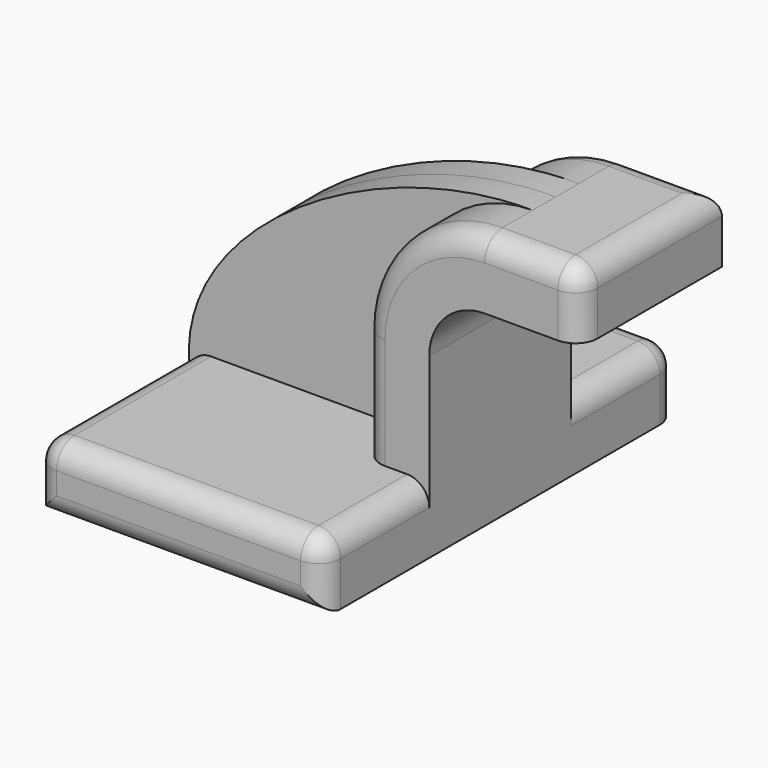
from build123d import *

# Parameters (mm, degrees)
F1_DEPTH = 63.5
F0_W     = 25.4
F0_H     = 9.398
F2_DEPTH = 25.4
F3_DEPTH = 8.255
F4_R     = 6.35
F5_R     = 6.35


with BuildPart() as f1:
    # F0 (on Front) → F1 (new body, symmetric)
    with BuildSketch(Plane.XZ):
        Polygon((22.225, 9.525), (-41.275, 9.525), (-41.275, -9.525), (41.275, -9.525), (41.275, 9.525), align=None)
    extrude(amount=F1_DEPTH, both=True)

    # F0 (on Front) → F2 (join, symmetric)
    with BuildSketch(Plane.XZ):
        with BuildLine():
            Line((22.225, 41.402), (22.225, 9.525))
            Line((22.225, 9.525), (41.275, 9.525))
            Line((41.275, 9.525), (41.275, 41.402))
            ThreePointArc((41.275, 41.402), (45.9246798487, 52.6273201513), (57.15, 57.277))
            Line((57.15, 57.277), (59.0423882883, 57.277))
            Line((59.0423882883, 57.277), (59.0423882883, 66.675))
            Line((59.0423882883, 66.675), (84.4423882883, 66.675))
            Line((84.4423882883, 66.675), (84.4423882883, 76.327))
            Line((84.4423882883, 76.327), (57.15, 76.327))
            ThreePointArc((57.15, 76.327), (32.4542956671, 66.0977043329), (22.225, 41.402))
        make_face()
        with Locations((71.7423882883, 61.976)):
            Rectangle(F0_W, F0_H)
    extrude(amount=F2_DEPTH, both=True)

    # F0 (on Front) → F3 (join, symmetric)
    with BuildSketch(Plane.XZ):
        with BuildLine():
            add(Edge.make_bspline(
                [(-41.275, 9.525), (-40.4969751835, 44.2796610296), (12.460607104, 76.7662450671), (57.15, 76.327)],
                knots=[0, 0, 0, 0, 118.9537213752, 118.9537213752, 118.9537213752, 118.9537213752], degree=3))
            Line((-41.275, 9.525), (22.225, 9.525))
            Line((22.225, 9.525), (22.225, 41.402))
            ThreePointArc((22.225, 41.402), (32.4542956671, 66.0977043329), (57.15, 76.327))
        make_face()
    extrude(amount=F3_DEPTH, both=True)

    # F4
    f4_edges = [f1.edges().sort_by_distance(p)[0] for p in [
        (41.275, -44.45, 9.525),
        (41.275, -63.5, 0),
        (41.275, 44.45, 9.525),
        (41.275, 63.5, 0),
        (0, 63.5, 9.525),
        (0, -63.5, 9.525),
        (-41.275, -35.8775, 9.525),
        (-41.275, 35.8775, 9.525),
        (0, -63.5, -9.525),
        (-41.275, -63.5, 0),
        (-41.275, 63.5, 0),
    ]]
    fillet(f4_edges, radius=F4_R)

    # F5
    f5_edges = [f1.edges().sort_by_distance(p)[0] for p in [
        (84.442388, -25.4, 66.802),
        (70.796194, -25.4, 76.327),
        (84.442388, 0, 76.327),
        (70.796194, 25.4, 76.327),
    ]]
    fillet(f5_edges, radius=F5_R)


solid = f1.part
